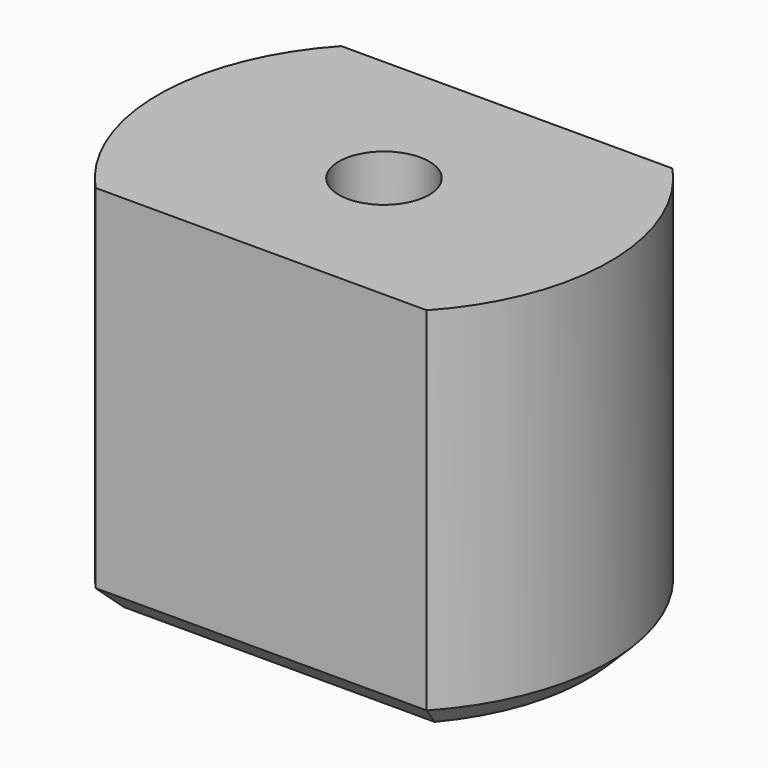
from build123d import *

# Parameters (mm, degrees)
F0_R     = 1
F1_DEPTH = 8.3
F2_SIZE  = 0.5


with BuildPart() as f1:
    # F0 (on Top) → F1 (new body)
    with BuildSketch(Plane.XY):
        with BuildLine():
            Line((3.666061, 3.4), (-3.666061, 3.4))
            ThreePointArc((-3.666061, 3.4), (-5, 0), (-3.666061, -3.4))
            Line((-3.666061, -3.4), (3.666061, -3.4))
            ThreePointArc((3.666061, -3.4), (5, 0), (3.666061, 3.4))
        make_face()
        Circle(F0_R, mode=Mode.SUBTRACT)
    extrude(amount=F1_DEPTH)

    # F2
    f2_edges = [f1.edges().sort_by_distance(p)[0] for p in [
        (-5, 0, 0),
        (0, -3.4, 0),
        (5, 0, 0),
        (0, 3.4, 0),
        (-1, 0, 0),
    ]]
    chamfer(f2_edges, length=F2_SIZE)


solid = f1.part
